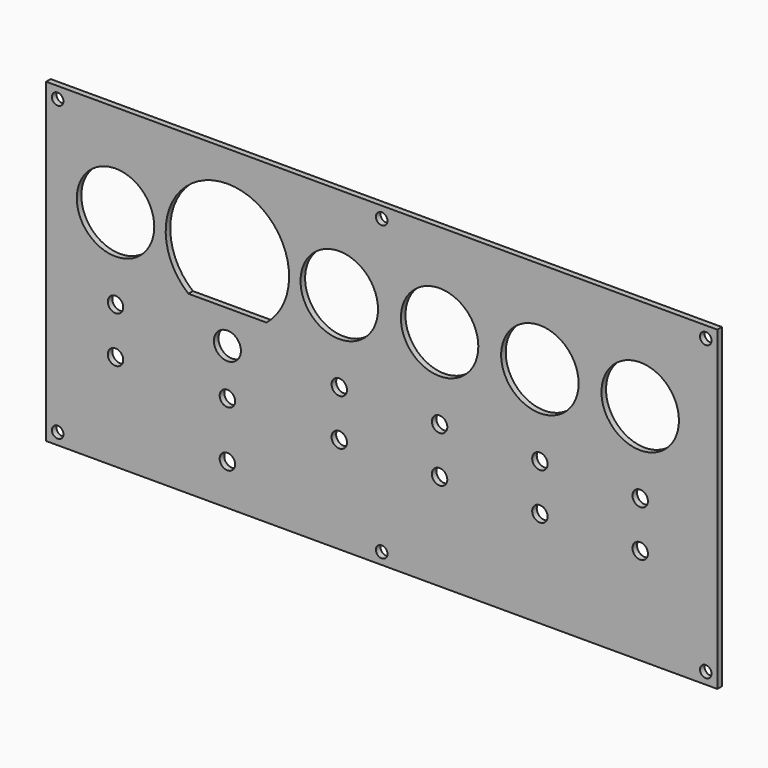
from build123d import *

# Parameters (mm, degrees)
F0_W     = 552.45
F0_H     = 260.35
F0_R     = 4.7625
F0_R_2   = 31.877
F1_DEPTH = 4.699
F2_R     = 6.35
F2_R_2   = 11.1125
F3_DEPTH = 25.4
F4_R     = 2.413
F5_DEPTH = 25.4


with BuildPart() as f1:
    # F0 (on Front) → F1 (new body)
    with BuildSketch(Plane.XZ):
        with Locations((15.887305, 34.925002)):
            Rectangle(F0_W, F0_H)
        with Locations((-250.812695, -85.724998)):
            Circle(F0_R, mode=Mode.SUBTRACT)
        with Locations((15.887305, -85.724998)):
            Circle(F0_R, mode=Mode.SUBTRACT)
        with Locations((282.587305, -85.724998)):
            Circle(F0_R, mode=Mode.SUBTRACT)
        with Locations((-203.187695, 88.900002)):
            Circle(F0_R_2, mode=Mode.SUBTRACT)
        with BuildLine():
            ThreePointArc((-143.233289, 49.543841), (-111.112695, 139.700002), (-78.9921, 49.543841))
            Line((-78.9921, 49.543841), (-143.233289, 49.543841))
        make_face(mode=Mode.SUBTRACT)
        with Locations((-19.037695, 88.900002)):
            Circle(F0_R_2, mode=Mode.SUBTRACT)
        with Locations((-250.812695, 155.575002)):
            Circle(F0_R, mode=Mode.SUBTRACT)
        with Locations((63.512305, 88.900002)):
            Circle(F0_R_2, mode=Mode.SUBTRACT)
        with Locations((146.062305, 88.900002)):
            Circle(F0_R_2, mode=Mode.SUBTRACT)
        with Locations((228.612305, 88.900002)):
            Circle(F0_R_2, mode=Mode.SUBTRACT)
        with Locations((15.887305, 155.575002)):
            Circle(F0_R, mode=Mode.SUBTRACT)
        with Locations((282.587305, 155.575002)):
            Circle(F0_R, mode=Mode.SUBTRACT)
    extrude(amount=-F1_DEPTH)

    # F2 (on face) → F3 (cut)
    with BuildSketch(Plane(origin=(0, 4.699, 0), x_dir=(-1, 0, 0), z_dir=(0, 1, 0))):
        with Locations((203.187695, 22.225002)):
            Circle(F2_R)
        with Locations((19.037695, 22.225002)):
            Circle(F2_R)
        with Locations((-63.512305, 22.225002)):
            Circle(F2_R)
        with Locations((-146.062305, 22.225002)):
            Circle(F2_R)
        with Locations((-228.612305, 22.225002)):
            Circle(F2_R)
        with Locations((203.187695, -15.874998)):
            Circle(F2_R)
        with Locations((19.037695, -15.874998)):
            Circle(F2_R)
        with Locations((-63.512305, -15.874998)):
            Circle(F2_R)
        with Locations((-146.062305, -15.874998)):
            Circle(F2_R)
        with Locations((-228.612305, -15.874998)):
            Circle(F2_R)
        with Locations((111.112695, -15.874998)):
            Circle(F2_R)
        with Locations((111.112695, 22.225002)):
            Circle(F2_R_2)
        with Locations((111.112695, -61.653677)):
            Circle(F2_R)
    extrude(amount=-F3_DEPTH, mode=Mode.SUBTRACT)

    # F4 (on face) → F5 (cut)
    with BuildSketch(Plane(origin=(0, 4.699, 0), x_dir=(-1, 0, 0), z_dir=(0, 1, 0))):
        with Locations((79.362695, 120.650002)):
            Circle(F4_R)
        with Locations((142.862695, 120.650002)):
            Circle(F4_R)
        with Locations((142.862695, 57.150002)):
            Circle(F4_R)
        with Locations((79.362695, 57.150002)):
            Circle(F4_R)
    extrude(amount=-F5_DEPTH, mode=Mode.SUBTRACT)


solid = f1.part
